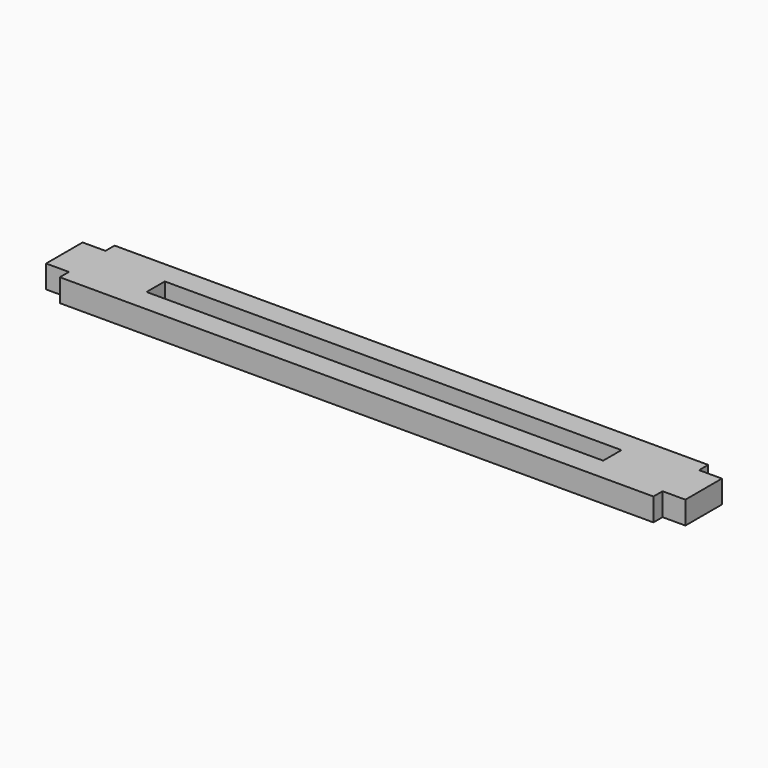
from build123d import *

# Parameters (mm, degrees)
F0_W     = 200
F0_H     = 10
F1_DEPTH = 10


with BuildPart() as f1:
    # F0 (on Top) → F1 (new body)
    with BuildSketch(Plane.XY):
        Polygon((-130, -15), (130, -15), (130, -10), (140, -10), (140, 10), (130, 10), (130, 15), (-130, 15), (-130, 10), (-140, 10), (-140, -10), (-130, -10), align=None)
        Rectangle(F0_W, F0_H, mode=Mode.SUBTRACT)
    extrude(amount=F1_DEPTH)


solid = f1.part
